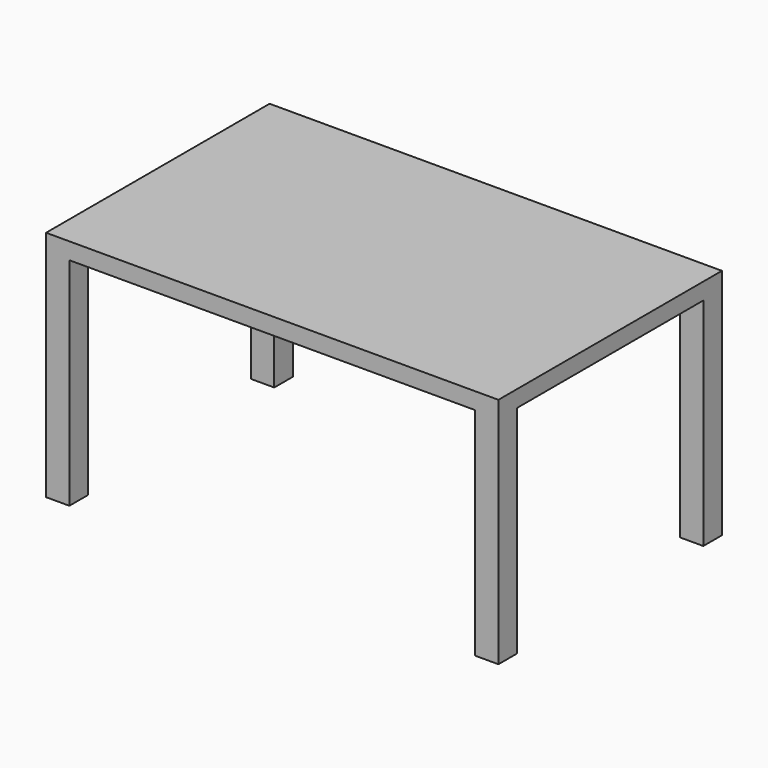
from build123d import *

# Parameters (mm, degrees)
F0_W     = 70
F0_H     = 70
F1_DEPTH = 650
F2_START = 650
F2_DEPTH = 50


with BuildPart() as f1:
    # F0 (on Top) → F1 (new body)
    with BuildSketch(Plane.XY):
        with Locations((-645, 385)):
            Rectangle(F0_W, F0_H)
    extrude(amount=F1_DEPTH)



with BuildPart() as f1b:
    # F0 (on Top) → F1, piece 2 (new body)
    with BuildSketch(Plane.XY):
        with Locations((645, 385)):
            Rectangle(F0_W, F0_H)
    extrude(amount=F1_DEPTH)


with BuildPart() as f1c:
    # F0 (on Top) → F1, piece 3 (new body)
    with BuildSketch(Plane.XY):
        with Locations((645, -385)):
            Rectangle(F0_W, F0_H)
    extrude(amount=F1_DEPTH)


with BuildPart() as f1d:
    # F0 (on Top) → F1, piece 4 (new body)
    with BuildSketch(Plane.XY):
        with Locations((-645, -385)):
            Rectangle(F0_W, F0_H)
    extrude(amount=F1_DEPTH)


with BuildPart() as f1_1:
    add(f1.part)

    add(f1b.part)  # F2 merges F1b

    add(f1c.part)  # F2 merges F1c

    add(f1d.part)  # F2 merges F1d
    # F0 (on Top) → F2 (join)
    with BuildSketch(Plane.XY.offset(F2_START)):
        with Locations((-645, 385)):
            Rectangle(F0_W, F0_H)
        Polygon((610, 420), (-610, 420), (-610, 350), (-680, 350), (-680, -350), (-610, -350), (-610, -420), (610, -420), (610, -350), (680, -350), (680, 350), (610, 350), align=None)
        with Locations((-645, -385)):
            Rectangle(F0_W, F0_H)
        with Locations((645, 385)):
            Rectangle(F0_W, F0_H)
        with Locations((645, -385)):
            Rectangle(F0_W, F0_H)
    extrude(amount=F2_DEPTH)


solid = f1_1.part
